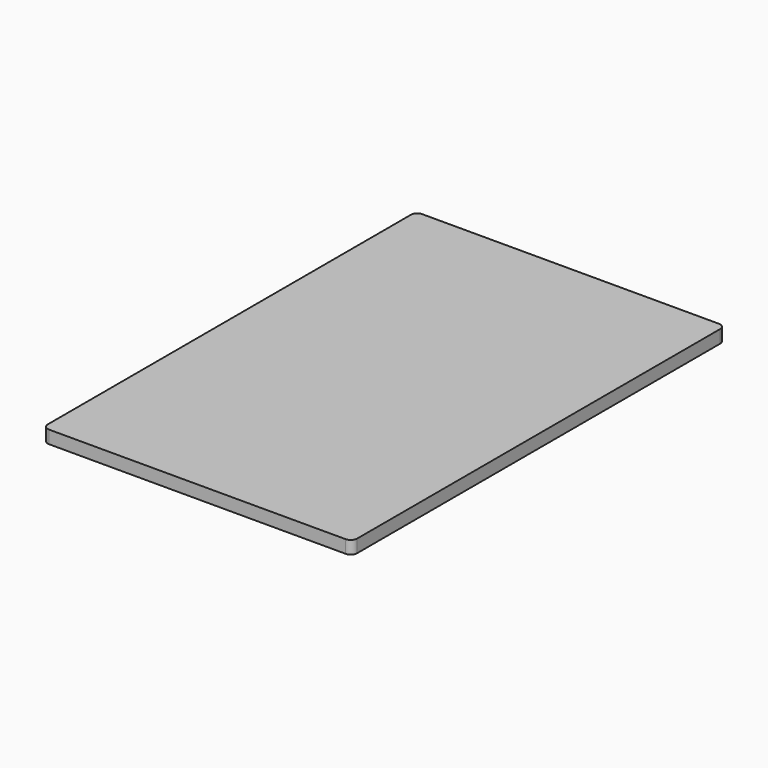
from build123d import *

# Parameters (mm, degrees)
SKETCH_W        = 48
SKETCH_H        = 72.4
PAD_DEPTH       = 2
FILLET_R        = 1
SKETCH001_W     = 18
SKETCH001_H     = 35
PAD001_DEPTH    = 3
SKETCH002_W     = 14
SKETCH002_H     = 17
POCKET_DEPTH    = 1
SKETCH003_W     = 7
SKETCH003_H     = 4
POCKET001_DEPTH = 1
PAD002_DEPTH    = 2


with BuildPart() as obj1:
    # Sketch → Pad (new body)
    with BuildSketch(Plane.XY):
        Rectangle(SKETCH_W, SKETCH_H)
    extrude(amount=PAD_DEPTH)

    # Fillet
    fillet_edges = [obj1.edges().sort_by_distance(p)[0] for p in [
        (-24, 36.2, 1),
        (24, 36.2, 1),
        (24, -36.2, 1),
        (-24, -36.2, 1),
    ]]
    fillet(fillet_edges, radius=FILLET_R)

    # Sketch001 → Pad001 (new body)
    with BuildSketch(Plane(origin=(0, 0, 0), x_dir=(1, 0, 0), z_dir=(0, 0, -1))):
        Rectangle(SKETCH001_W, SKETCH001_H)
    extrude(amount=PAD001_DEPTH)

    # Sketch002 → Pocket (cut)
    with BuildSketch(Plane(origin=(0, 0, -3), x_dir=(1, 0, 0), z_dir=(0, 0, -1))):
        with Locations((0, -9)):
            Rectangle(SKETCH002_W, SKETCH002_H)
    extrude(amount=-POCKET_DEPTH, mode=Mode.SUBTRACT)

    # Sketch003 → Pocket001 (cut)
    with BuildSketch(Plane(origin=(0, 0, -2), x_dir=(1, 0, 0), z_dir=(0, 0, -1))):
        with Locations((0, -14)):
            Rectangle(SKETCH003_W, SKETCH003_H)
    extrude(amount=-POCKET001_DEPTH, mode=Mode.SUBTRACT)

    # Sketch004 → Pad002 (new body)
    with BuildSketch(Plane.YZ.offset(9)):
        Polygon((15.5, -3), (15.5, -1.5), (-6.5, -1.5), (-6.5, 0), (-17.5, 0), (-17.5, -3), align=None)
    extrude(amount=PAD002_DEPTH)


with BuildPart() as part_mirroring:
    # Part__Mirroring: instance of obj1
    add(obj1.part.mirror(Plane(origin=(0, 0, 0), x_dir=(0, -1, 0), z_dir=(1, 0, 0))))


solid = part_mirroring.part
